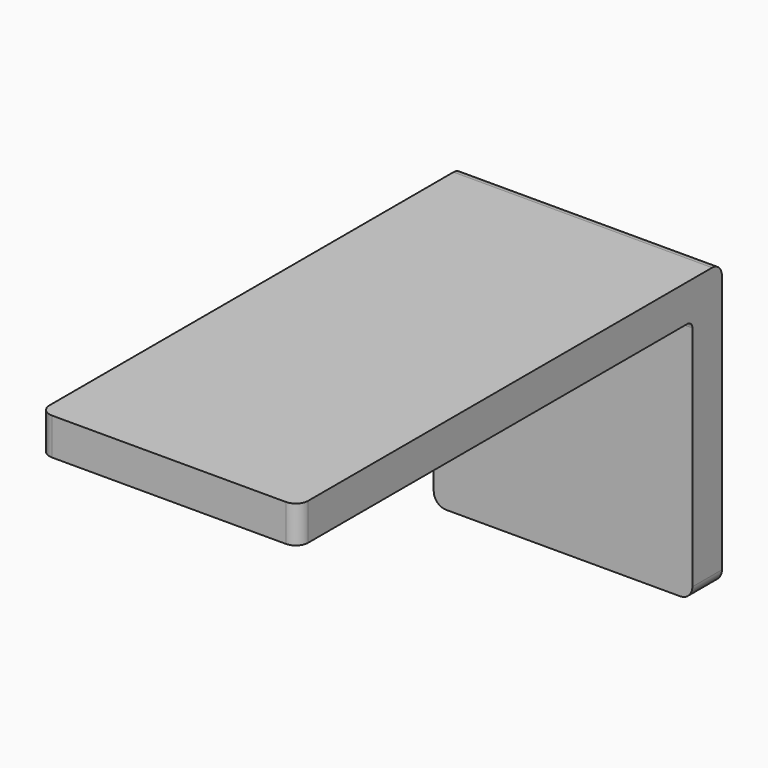
from build123d import *

# Parameters (mm, degrees)
F1_DEPTH = 21
F2_R     = 1
F3_R     = 0.5


with BuildPart() as f1:
    # F0 (on Right) → F1 (new body)
    with BuildSketch(Plane.YZ):
        Polygon((-40, 3), (-40, 0), (0, 0), (0, -20), (3, -20), (3, 3), align=None)
    extrude(amount=F1_DEPTH)

    # F2
    f2_edges = [f1.edges().sort_by_distance(p)[0] for p in [
        (10.5, 3, 3),
        (21, -40, 1.5),
        (0, -40, 1.5),
        (21, 1.5, -20),
        (0, 1.5, -20),
    ]]
    fillet(f2_edges, radius=F2_R)

    # F3
    f3_edges = [f1.edges().sort_by_distance(p)[0] for p in [
        (10.5, 0, 0),
    ]]
    fillet(f3_edges, radius=F3_R)


solid = f1.part
